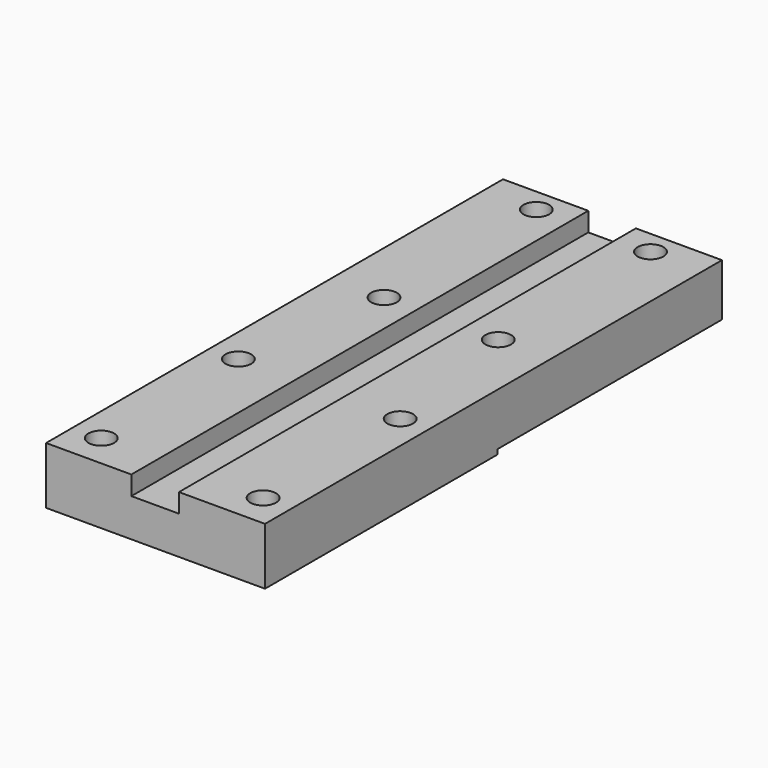
from build123d import *

# Parameters (mm, degrees)
SKETCH_W        = 46
SKETCH_H        = 120
SKETCH_R        = 2.7
PAD_DEPTH       = 12
SKETCH001_W     = 10
SKETCH001_H     = 120
POCKET_DEPTH    = 4
SKETCH002_W     = 46
SKETCH002_H     = 59
POCKET001_DEPTH = 1


with BuildPart() as part:
    # Sketch → Pad (new body)
    with BuildSketch(Plane.XY):
        with Locations((0, 60)):
            Rectangle(SKETCH_W, SKETCH_H)
        with Locations((-17, 7)):
            Circle(SKETCH_R, mode=Mode.SUBTRACT)
        with Locations((-17, 43)):
            Circle(SKETCH_R, mode=Mode.SUBTRACT)
        with Locations((17, 43)):
            Circle(SKETCH_R, mode=Mode.SUBTRACT)
        with Locations((17, 7)):
            Circle(SKETCH_R, mode=Mode.SUBTRACT)
        with Locations((-12, 115)):
            Circle(SKETCH_R, mode=Mode.SUBTRACT)
        with Locations((12, 115)):
            Circle(SKETCH_R, mode=Mode.SUBTRACT)
        with Locations((12, 75)):
            Circle(SKETCH_R, mode=Mode.SUBTRACT)
        with Locations((-12, 75)):
            Circle(SKETCH_R, mode=Mode.SUBTRACT)
    extrude(amount=PAD_DEPTH)

    # Sketch001 (on Face14 of Pad) → Pocket (cut)
    with BuildSketch(Plane.XY.offset(12)):
        with Locations((-0.080761, 60)):
            Rectangle(SKETCH001_W, SKETCH001_H)
    extrude(amount=-POCKET_DEPTH, mode=Mode.SUBTRACT)

    # Sketch002 (on Face2 of Pocket) → Pocket001 (cut)
    with BuildSketch(Plane(origin=(0, 0, 0), x_dir=(1, 0, 0), z_dir=(0, 0, -1))):
        with Locations((0, -90.5)):
            Rectangle(SKETCH002_W, SKETCH002_H)
    extrude(amount=-POCKET001_DEPTH, mode=Mode.SUBTRACT)


solid = part.part
